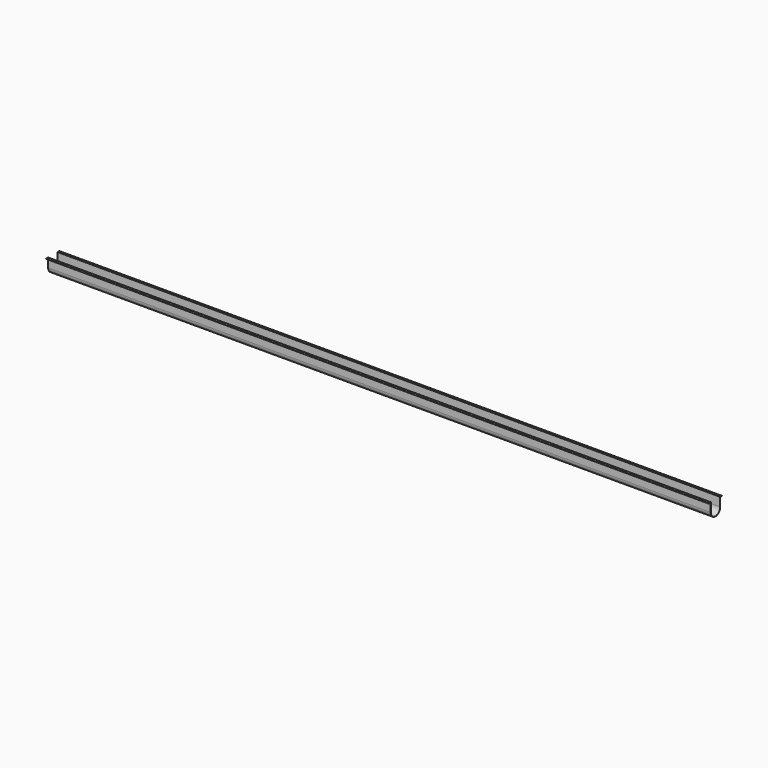
from build123d import *

# Parameters (mm, degrees)
F1_DEPTH = 15849.6


with BuildPart() as f1:
    # F0 (on Right) → F1 (new body)
    with BuildSketch(Plane.YZ):
        with BuildLine():
            Line((-208.333633, 106.577895), (-147.57838, 106.577895))
            Line((-147.57838, 106.577895), (-147.57838, -102.972105))
            ThreePointArc((-147.57838, -102.972105), (-4.70338, -245.847105), (138.17162, -102.972105))
            Line((138.17162, -102.972105), (138.17162, 106.577895))
            Line((138.17162, 106.577895), (188.912271, 106.577895))
            Line((188.912271, 106.577895), (188.912271, 109.752895))
            Line((188.912271, 109.752895), (138.17162, 109.752895))
            Line((138.17162, 109.752895), (134.99662, 109.752895))
            Line((134.99662, 109.752895), (134.99662, -102.972105))
            ThreePointArc((134.99662, -102.972105), (-4.70338, -242.672105), (-144.40338, -102.972105))
            Line((-144.40338, -102.972105), (-144.40338, 109.752895))
            Line((-144.40338, 109.752895), (-147.57838, 109.752895))
            Line((-147.57838, 109.752895), (-208.333633, 109.752895))
            Line((-208.333633, 109.752895), (-208.333633, 106.577895))
        make_face()
    extrude(amount=F1_DEPTH)


solid = f1.part
